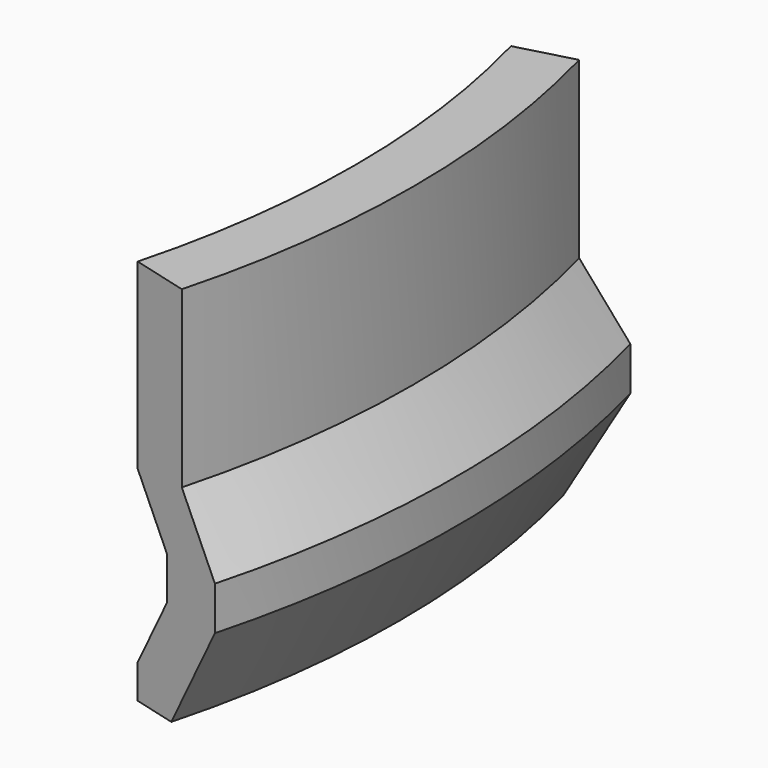
from build123d import *

# Parameters (mm, degrees)
F1_ANGLE = 30


with BuildPart() as f1:
    # F0 (on Front) → F1 (revolve, symmetric)
    with BuildSketch(Plane.XZ) as f1_sk:
        Polygon((0.467722, -0.143643), (-1.532278, -0.143643), (-1.532278, -6.143643), (-1.532278, -6.417708), (-0.212138, -8.429299), (-0.212138, -9.929299), (-1.532278, -12.27802), (-1.532278, -13.443643), (-0.007577, -13.443643), (1.967722, -9.929299), (1.967722, -8.429299), (0.467722, -6.143643), align=None)
    revolve(axis=Axis((-32.532278, 0, -1.684785), (0, 0, 1)), revolution_arc=F1_ANGLE / 2)
    revolve(f1_sk.sketch, axis=Axis((-32.532278, 0, -1.684785), (0, 0, -1)), revolution_arc=F1_ANGLE / 2)


solid = f1.part
